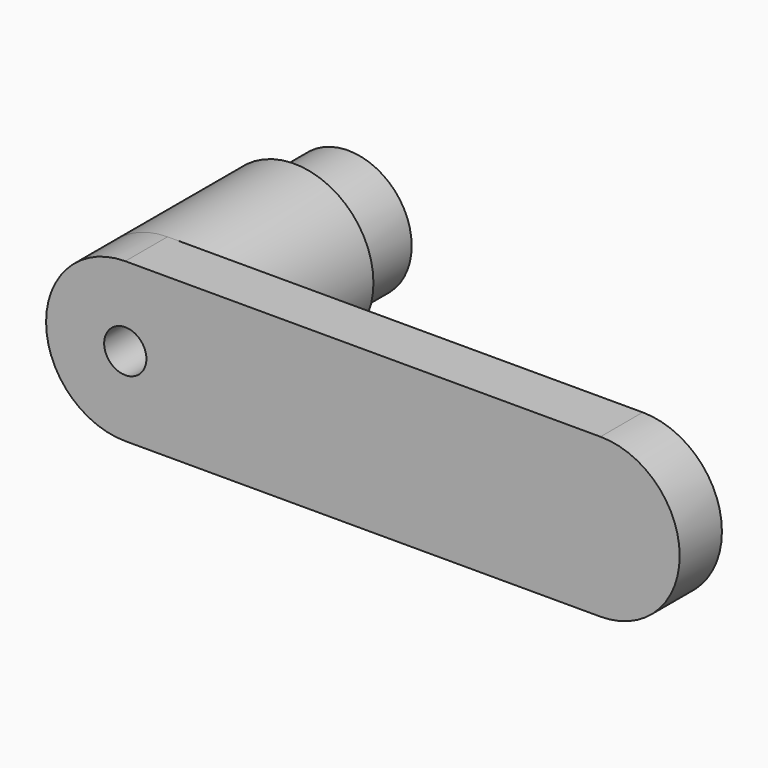
from build123d import *

# Parameters (mm, degrees)
SKETCH_R        = 12
PAD_DEPTH       = 7.8
SKETCH001_R     = 12
SKETCH001_R_2   = 10.4
SKETCH001_R_3   = 1.15
PAD001_DEPTH    = 5
SKETCH002_R     = 15
PAD002_DEPTH    = 40
PAD003_DEPTH    = 10
SKETCH004_R     = 1.65
POCKET_DEPTH    = 52.801
SKETCH005_R     = 4
POCKET001_DEPTH = 37.8


with BuildPart() as part:
    # Sketch → Pad (new body)
    with BuildSketch(Plane.XZ):
        Circle(SKETCH_R)
    extrude(amount=PAD_DEPTH)

    # Sketch001 (on Face2 of Pad) → Pad001 (join)
    with BuildSketch(Plane(origin=(0, 0, 0), x_dir=(1, 0, 0), z_dir=(0, 1, 0))):
        Circle(SKETCH001_R)
        Circle(SKETCH001_R_2, mode=Mode.SUBTRACT)
        with Locations((0, 7.3)):
            Circle(SKETCH001_R_3)
        with Locations((7.3, 0)):
            Circle(SKETCH001_R_3)
        with Locations((0, -7.3)):
            Circle(SKETCH001_R_3)
        with Locations((-7.3, 0)):
            Circle(SKETCH001_R_3)
    extrude(amount=PAD001_DEPTH)

    # Sketch002 (on Face1 of Pad001) → Pad002 (join)
    with BuildSketch(Plane.XZ.offset(7.8)):
        Circle(SKETCH002_R)
    extrude(amount=PAD002_DEPTH)

    # Sketch003 (on Face6 of Pad002) → Pad003 (join)
    with BuildSketch(Plane.XZ.offset(47.8)):
        with BuildLine():
            ThreePointArc((0, 15), (-15, 0), (0, -15))
            Line((0, -15), (90, -15))
            ThreePointArc((90, -15), (105, 0), (90, 15))
            Line((0, 15), (90, 15))
        make_face()
    extrude(amount=-PAD003_DEPTH)

    # Sketch004 (on Face5 of Pad003) → Pocket (cut, through all)
    with BuildSketch(Plane.XZ.offset(47.8)):
        Circle(SKETCH004_R)
    extrude(amount=-POCKET_DEPTH, mode=Mode.SUBTRACT)

    # Sketch005 (on Face6 of Pocket) → Pocket001 (cut)
    with BuildSketch(Plane.XZ.offset(47.8)):
        Circle(SKETCH005_R)
    extrude(amount=-POCKET001_DEPTH, mode=Mode.SUBTRACT)


solid = part.part
